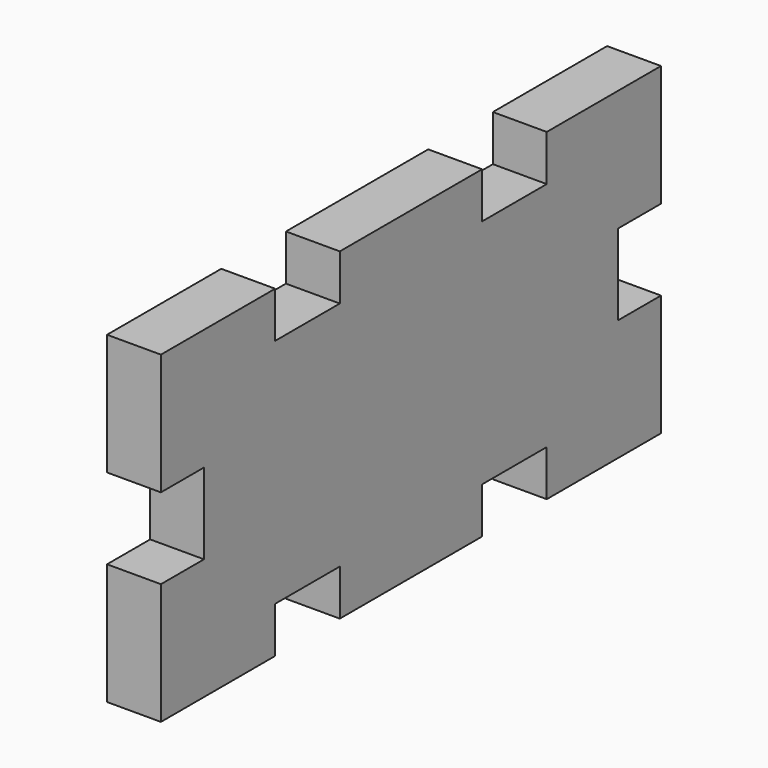
from build123d import *

# Parameters (mm, degrees)
F1_DEPTH = 3.175


with BuildPart() as f1:
    # F0 (on Right) → F1 (new body)
    with BuildSketch(Plane.YZ):
        Polygon((-15.24, 0), (-7.62, 0), (-7.62, 6.819678), (-10.00125, 6.819678), (-10.00125, 9.525), (-18.415, 9.525), (-18.415, 2.38125), (-15.24, 2.38125), align=None)
        Polygon((5.23875, 6.819678), (5.23875, 9.525), (0, 9.525), (0, 0), (7.62, 0), (7.62, 6.819678), align=None)
        Polygon((0, 0), (0, 9.525), (-5.23875, 9.525), (-5.23875, 6.819678), (-7.62, 6.819678), (-7.62, 0), align=None)
        Polygon((18.415, 2.38125), (18.415, 9.525), (10.00125, 9.525), (10.00125, 6.819678), (7.62, 6.819678), (7.62, 0), (15.24, 0), (15.24, 2.38125), align=None)
        Polygon((18.415, -9.525), (18.415, -2.38125), (15.24, -2.38125), (15.24, 0), (7.62, 0), (7.62, -6.819678), (10.00125, -6.819678), (10.00125, -9.525), align=None)
        Polygon((0, -9.525), (0, 0), (-7.62, 0), (-7.62, -6.819678), (-5.23875, -6.819678), (-5.23875, -9.525), align=None)
        Polygon((7.62, -6.819678), (7.62, 0), (0, 0), (0, -9.525), (5.23875, -9.525), (5.23875, -6.819678), align=None)
        Polygon((-7.62, -6.819678), (-7.62, 0), (-15.24, 0), (-15.24, -2.38125), (-18.415, -2.38125), (-18.415, -9.525), (-10.00125, -9.525), (-10.00125, -6.819678), align=None)
    extrude(amount=F1_DEPTH)


solid = f1.part
